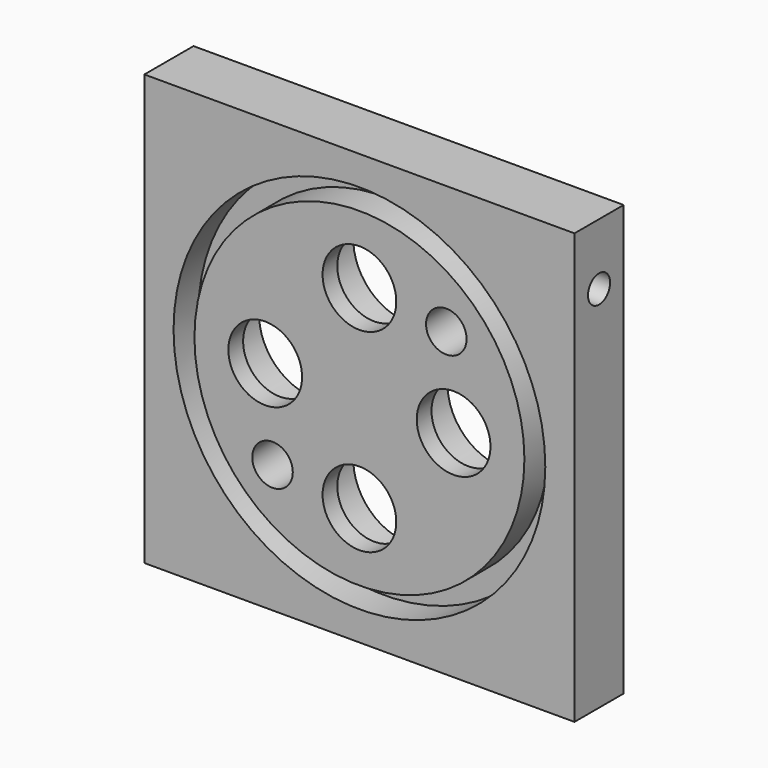
from build123d import *

# Parameters (mm, degrees)
SKETCH_W            = 70
SKETCH_H            = 70
PAD_DEPTH           = 10
SKETCH001_R         = 30.25
SKETCH001_R_2       = 26.85
POCKET_DEPTH        = 5
SKETCH003_R         = 2.25
HOLE_DEPTH          = 10
HOLE_TIPS_R         = 2.25
SKETCH004_R         = 2.25
HOLE001_DEPTH       = 10
HOLE001_TIPS_R      = 2.25
HOLE002_D           = 12
HOLE002_CBORE_D     = 18
HOLE002_CBORE_DEPTH = 7
SKETCH007_R         = 3.3
HOLE003_DEPTH       = 7
HOLE003_TIPS_R      = 3.3


with BuildPart() as part:
    # Sketch → Pad (new body)
    with BuildSketch(Plane.XZ):
        Rectangle(SKETCH_W, SKETCH_H)
    extrude(amount=PAD_DEPTH)

    # Sketch001 (on Face6 of Pad) → Pocket (cut)
    with BuildSketch(Plane.XZ.offset(10)):
        Circle(SKETCH001_R)
        Circle(SKETCH001_R_2, mode=Mode.SUBTRACT)
    extrude(amount=-POCKET_DEPTH, mode=Mode.SUBTRACT)

    # Sketch003 (on Face3 of Pocket) → Hole (cut)
    with BuildSketch(Plane(origin=(35, 0, 0), x_dir=(0, 0, 1), z_dir=(1, 0, 0))):
        with Locations((25, 5)):
            Circle(SKETCH003_R)
    extrude(amount=-HOLE_DEPTH, mode=Mode.SUBTRACT)

    # Hole tips → Hole tip 1 section 0
    with BuildSketch(Plane(origin=(25, 0, 0), x_dir=(0, 0, 1), z_dir=(1, 0, 0)), mode=Mode.PRIVATE) as hole_tip_1_s0:
        with Locations((25, 5)):
            Circle(HOLE_TIPS_R)
    loft([hole_tip_1_s0.sketch, Vertex(23.648064, -5, 25)], mode=Mode.SUBTRACT)

    # Sketch004 (on Face6 of Hole) → Hole001 (cut)
    with BuildSketch(Plane(origin=(0, 0, -35), x_dir=(1, 0, 0), z_dir=(0, 0, -1))):
        with Locations((25, 5)):
            Circle(SKETCH004_R)
    extrude(amount=-HOLE001_DEPTH, mode=Mode.SUBTRACT)

    # Hole001 tips → Hole001 tip 1 section 0
    with BuildSketch(Plane(origin=(0, 0, -25), x_dir=(1, 0, 0), z_dir=(0, 0, -1)), mode=Mode.PRIVATE) as hole001_tip_1_s0:
        with Locations((25, 5)):
            Circle(HOLE001_TIPS_R)
    loft([hole001_tip_1_s0.sketch, Vertex(25, -5, -23.648064)], mode=Mode.SUBTRACT)

    # Hole002 (through all)
    with Locations(Plane(origin=(0, 0, 0), x_dir=(1, 0, 0), z_dir=(0, 1, 0))):
        with Locations((15.33, 0), (0, -15.779452), (0, 15.779452), (-15.33, 0)):
            CounterBoreHole(HOLE002_D / 2, HOLE002_CBORE_D / 2, HOLE002_CBORE_DEPTH)

    # Sketch007 (on Face5 of Hole002) → Hole003 (cut)
    with BuildSketch(Plane.XZ.offset(10)):
        with Locations((14.142136, 14.142136)):
            Circle(SKETCH007_R)
        with Locations((-14.142136, -14.142136)):
            Circle(SKETCH007_R)
    extrude(amount=-HOLE003_DEPTH, mode=Mode.SUBTRACT)

    # Hole003 tips → Hole003 tip 1 section 0
    with BuildSketch(Plane.XZ.offset(3), mode=Mode.PRIVATE) as hole003_tip_1_s0:
        with Locations((14.142136, 14.142136)):
            Circle(HOLE003_TIPS_R)
    loft([hole003_tip_1_s0.sketch, Vertex(14.142136, -1.01716, 14.142136)], mode=Mode.SUBTRACT)

    # Hole003 tips → Hole003 tip 2 section 0
    with BuildSketch(Plane.XZ.offset(3), mode=Mode.PRIVATE) as hole003_tip_2_s0:
        with Locations((-14.142136, -14.142136)):
            Circle(HOLE003_TIPS_R)
    loft([hole003_tip_2_s0.sketch, Vertex(-14.142136, -1.01716, -14.142136)], mode=Mode.SUBTRACT)


solid = part.part
